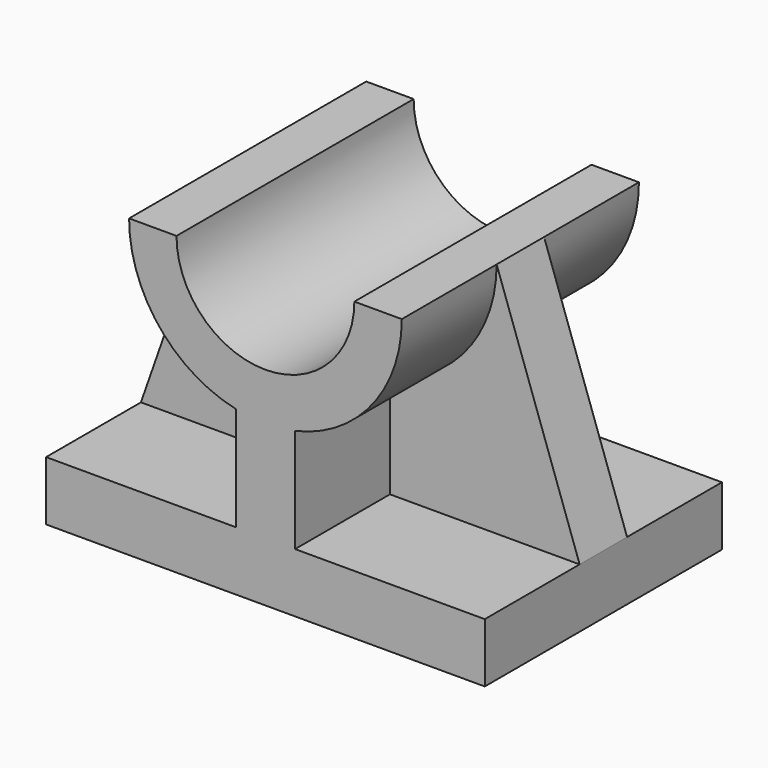
from build123d import *

# Parameters (mm, degrees)
F1_DEPTH = 25
F3_DEPTH = 5
F5_DEPTH = 5


with BuildPart() as f1:
    # F0 (on Front) → F1 (new body, symmetric)
    with BuildSketch(Plane.XZ):
        with BuildLine():
            Line((-37, 10), (-37, 0))
            Line((-37, 0), (0, 0))
            Line((0, 0), (37, 0))
            Line((37, 0), (37, 10))
            Line((37, 10), (5, 10))
            Line((5, 10), (5, 27))
            Line((5, 27), (5, 27.550056))
            ThreePointArc((5, 27.550056), (17.944358, 35.612505), (23, 50))
            Line((23, 50), (15, 50))
            ThreePointArc((15, 50), (0, 35), (-15, 50))
            Line((-15, 50), (-23, 50))
            ThreePointArc((-23, 50), (-17.944358, 35.612505), (-5, 27.550056))
            Line((-5, 27.550056), (-5, 23.140989))
            Line((-5, 23.140989), (-5, 10))
            Line((-5, 10), (-37, 10))
        make_face()
    extrude(amount=F1_DEPTH, both=True)

    # F4 (on Front) → F5 (join, symmetric)
    with BuildSketch(Plane.XZ):
        with BuildLine():
            ThreePointArc((23, 50), (17.944358, 35.612505), (5, 27.550056))
            Line((5, 27.550056), (5, 10))
            Line((5, 10), (37, 10))
            Line((37, 10), (23, 50))
        make_face()
    extrude(amount=F5_DEPTH, both=True)


with BuildPart() as f3:
    # F2 (on Front) → F3 (new body, symmetric)
    with BuildSketch(Plane.XZ):
        with BuildLine():
            ThreePointArc((-5, 27.550056), (-17.944358, 35.612505), (-23, 50))
            Line((-23, 50), (-37, 10))
            Line((-37, 10), (-5, 10))
            Line((-5, 10), (-5, 27.550056))
        make_face()
    extrude(amount=F3_DEPTH, both=True)


solid = Compound([f1.part, f3.part])
